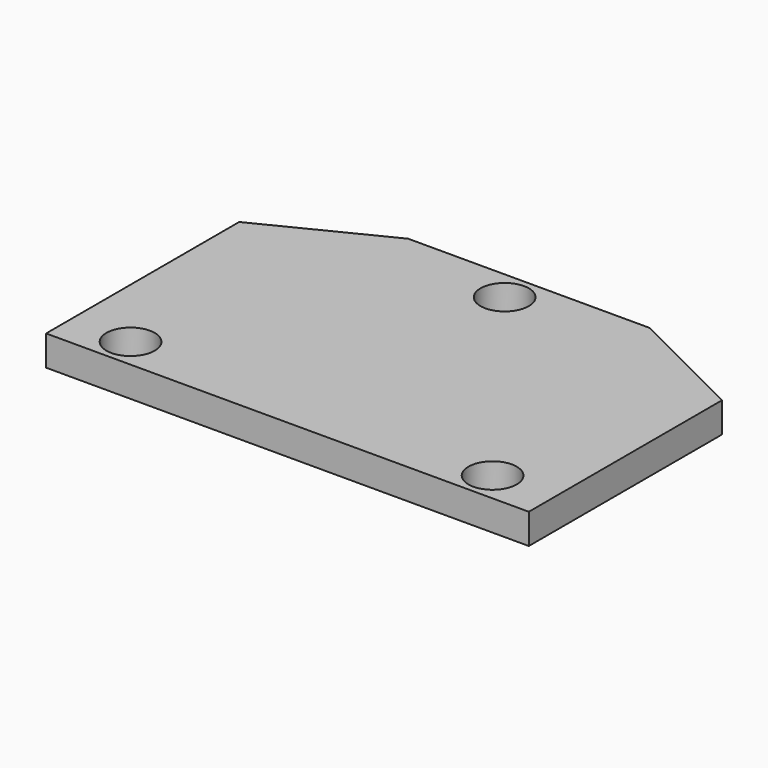
from build123d import *

# Parameters (mm, degrees)
SKETCH_R  = 4
PAD_DEPTH = 5


with BuildPart() as part:
    # Sketch → Pad (new body)
    with BuildSketch(Plane.XY):
        Polygon((-20, 20), (20, 20), (40, 10), (40, -30), (-40, -30), (-40, 10), align=None)
        with Locations((-30, -25)):
            Circle(SKETCH_R, mode=Mode.SUBTRACT)
        with Locations((30, -25)):
            Circle(SKETCH_R, mode=Mode.SUBTRACT)
        with Locations((0, 15)):
            Circle(SKETCH_R, mode=Mode.SUBTRACT)
    extrude(amount=PAD_DEPTH)


solid = part.part
